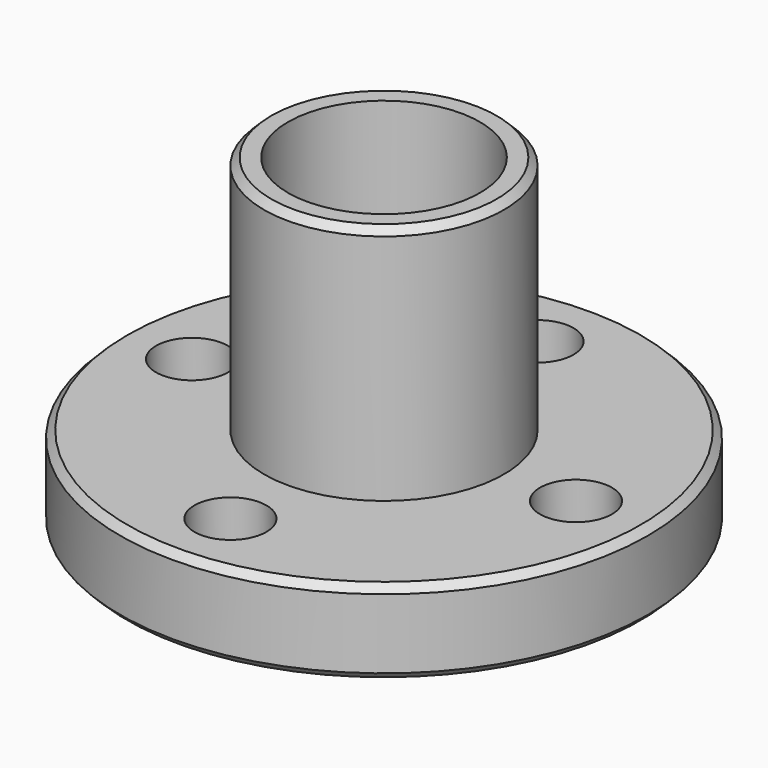
from build123d import *

# Parameters (mm, degrees)
F2_SIZE  = 0.3
F3_R     = 1.5
F4_DEPTH = 25


with BuildPart() as f1:
    # F0 (on Front) → F1 (revolve)
    with BuildSketch(Plane.XZ):
        Polygon((-5, 0), (-4, 0), (-4, 15), (-5, 15), (-5, 5), (-11, 5), (-11, 1.5), (-5, 1.5), align=None)
    revolve(axis=Axis((0, 0, -3.111579), (0, 0, -1)))

    # F2
    f2_edges = [f1.edges().sort_by_distance(p)[0] for p in [
        (11, 0, 5),
        (5, 0, 15),
        (11, 0, 1.5),
        (5, 0, 0),
    ]]
    chamfer(f2_edges, length=F2_SIZE)

    # F3 (on face) → F4 (cut)
    with BuildSketch(Plane.XY.offset(5)):
        with Locations((0, 8)):
            Circle(F3_R)
        with Locations((-8, 0)):
            Circle(F3_R)
        with Locations((0, -8)):
            Circle(F3_R)
        with Locations((8, 0)):
            Circle(F3_R)
    extrude(amount=-F4_DEPTH, mode=Mode.SUBTRACT)


solid = f1.part
